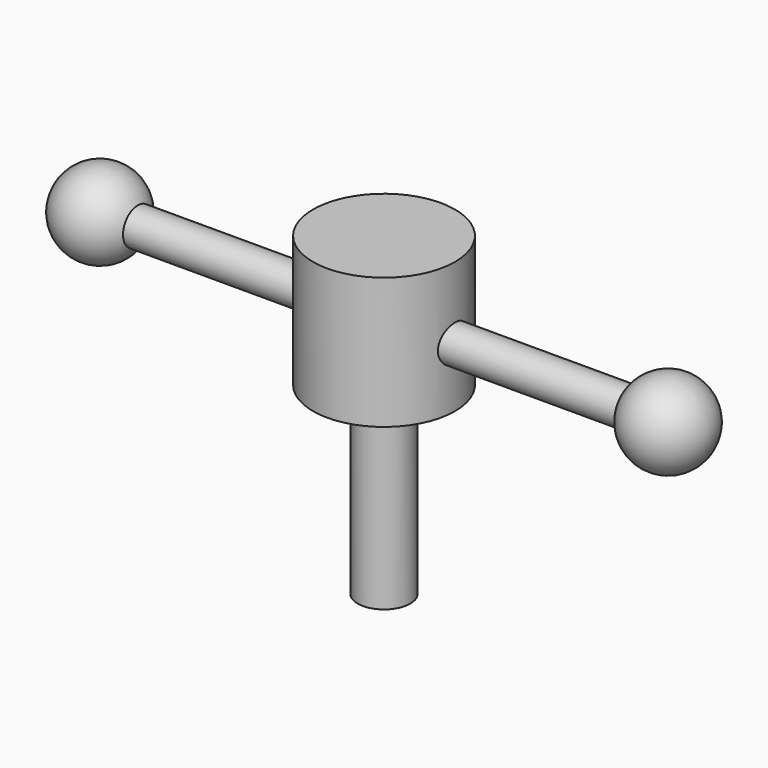
from build123d import *

# Parameters (mm, degrees)
F0_W = 17.1583627141
F0_H = 31.75
F2_W = 6.35
F2_H = 44.45


with BuildPart() as f1:
    # F0 (on Front) → F1 (revolve)
    with BuildSketch(Plane.XZ):
        with Locations((8.579181357, 15.875)):
            Rectangle(F0_W, F0_H)
    revolve(axis=Axis((0, 0, -9.8678829017), (0, 0, -1)))

    # F2 (on Front) → F3 (revolve)
    with BuildSketch(Plane.XZ):
        with Locations((3.175, -22.225)):
            Rectangle(F2_W, F2_H)
    revolve(axis=Axis((0, 0, -33.3453212399), (0, 0, -1)))

    # F4 (on Front) → F5 (revolve)
    with BuildSketch(Plane.XZ):
        with BuildLine():
            Line((-58.4687533851, 14.4232111052), (-7.6910817411, 14.4232111052))
            Line((-7.6910817411, 14.4232111052), (-7.6910817411, 18.8682111052))
            Line((-7.6910817411, 18.8682111052), (-59.4926943332, 18.8682111052))
            ThreePointArc((-59.4926943332, 18.8682111052), (-70.9094594197, 24.3239171398), (-78.7887533851, 14.4232111052))
            Line((-78.7887533851, 14.4232111052), (-58.4687533851, 14.4232111052))
        make_face()
        with BuildLine():
            Line((59.4926943332, 18.8682111052), (7.6910817411, 18.8682111052))
            Line((7.6910817411, 18.8682111052), (7.6910817411, 14.4232111052))
            Line((7.6910817411, 14.4232111052), (78.7887533851, 14.4232111052))
            ThreePointArc((78.7887533851, 14.4232111052), (70.9094594197, 24.3239171398), (59.4926943332, 18.8682111052))
        make_face()
    revolve(axis=Axis((-48.3527202798, 0, 14.4232111052), (-1, 0, 0)))


solid = f1.part
